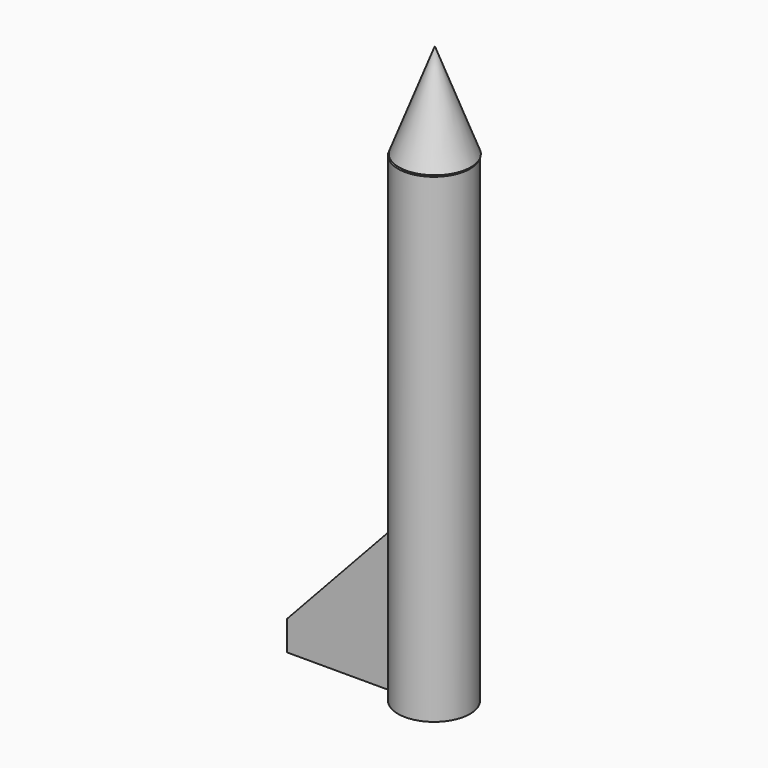
from build123d import *

# Parameters (mm, degrees)
F0_R     = 11.43
F0_R_2   = 9.017
F1_DEPTH = 152.4
F3_DEPTH = 2.54
F6_DEPTH = 2.54


with BuildPart() as f1:
    # F0 (on Top) → F1 (new body)
    with BuildSketch(Plane.XY):
        Circle(F0_R)
        Circle(F0_R_2, mode=Mode.SUBTRACT)
    extrude(amount=F1_DEPTH)


with BuildPart() as f3:
    # F2 (on Front) → F3 (new body)
    with BuildSketch(Plane.XZ):
        Polygon((-44.635326, 0), (-11.638614, 0), (-11.638614, 44.944156), (-44.635326, 9.403175), align=None)
    extrude(amount=F3_DEPTH)


with BuildPart() as f5:
    # F4 (on Front) → F5 (revolve)
    with BuildSketch(Plane.XZ):
        Polygon((0.254, 139.885277), (0.254, 183.097425), (-11.176, 152.938947), (-8.636, 152.938947), (-8.636, 139.885277), (-4.191, 139.885277), (-3.778456, 139.885277), align=None)
    revolve(axis=Axis((0.254, 0, 161.491351), (0, 0, -1)))

    # F4 (on Front) → F6 (join)
    with BuildSketch(Plane.XZ):
        Polygon((-3.778456, 137.594208), (-3.778456, 139.885277), (-4.191, 139.885277), (-4.191, 137.051687), (-2.004395, 137.051687), (-2.004395, 138.375387), (-2.877722, 138.375387), (-2.877722, 137.594208), align=None)
    extrude(amount=F6_DEPTH)


solid = Compound([f1.part, f3.part, f5.part])
